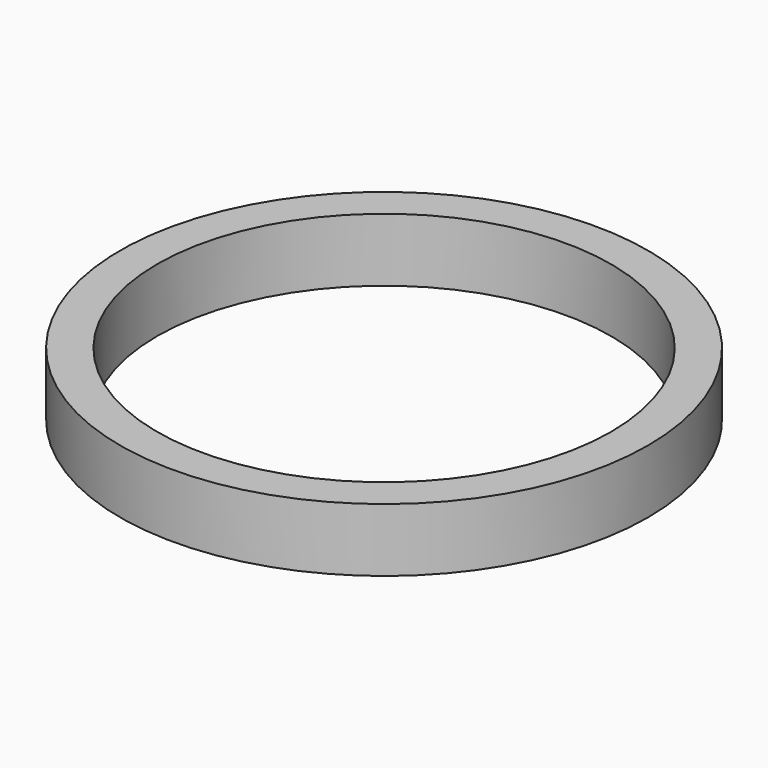
from build123d import *

# Parameters (mm, degrees)
SKETCH_R   = 12.5
SKETCH_R_2 = 10.75
PAD_DEPTH  = 3


with BuildPart() as part:
    # Sketch → Pad (new body)
    with BuildSketch(Plane.XY):
        Circle(SKETCH_R)
        Circle(SKETCH_R_2, mode=Mode.SUBTRACT)
    extrude(amount=PAD_DEPTH)


solid = part.part
